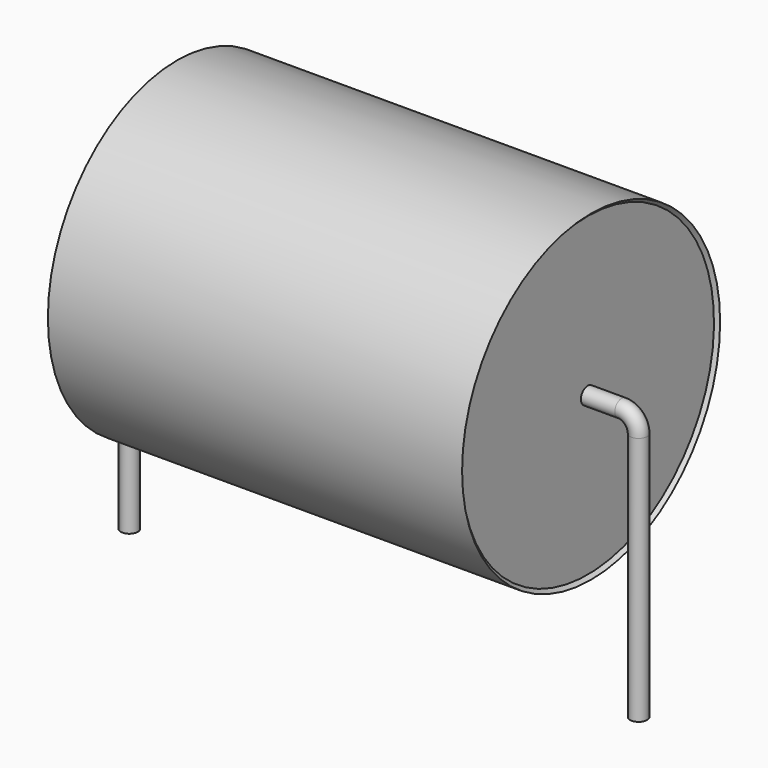
from build123d import *

# Parameters (mm, degrees)
SKETCH_R = 0.25


with BuildPart() as sweep_body:
    # Sweep: sweep along a path in Sketch001
    with BuildLine(Plane.XZ) as sweep_path:
        Line((0, -3), (0, 4.35))
        ThreePointArc((0, 4.35), (0.146443, 4.70355), (0.499991, 4.85))
        Line((0.499991, 4.85), (14.5, 4.85))
        ThreePointArc((14.5, 4.85), (14.853553, 4.703553), (15, 4.35))
        Line((15, 4.35), (15, -3))
    # Sketch → Sweep (sweep)
    with BuildSketch(Plane.XY.offset(-2)):
        Circle(SKETCH_R)
    sweep(path=sweep_path.line)


with BuildPart() as revolution:
    # Sketch002 → Revolution (revolve)
    with BuildSketch(Plane.XZ):
        Polygon((1.4, 9.6), (13.6, 9.6), (13.5, 9.5), (13.5, 4.85), (1.5, 4.85), (1.5, 9.5), align=None)
    revolve(axis=Axis((7.611803, 0, 4.85), (1, 0, 0)))


solid = Compound([sweep_body.part, revolution.part])
